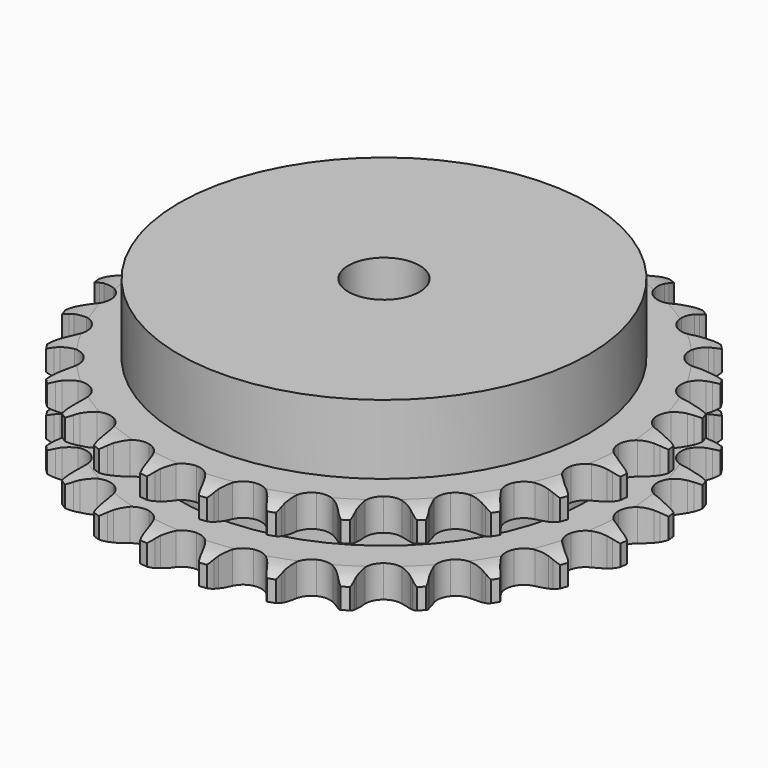
from build123d import *

# Parameters (mm, degrees)
PAD_DEPTH         = 25.5
SKETCH001_R       = 57.5
PAD001_DEPTH      = 45
SKETCH002_R       = 10
POCKET_DEPTH      = 0.001
POCKET_DEPTH_BACK = 45.001


with BuildPart() as part:
    # Sprocket → Pad (new body)
    with BuildSketch(Plane.XY):
        with BuildLine():
            ThreePointArc((-8.494226, 75.388337), (-7.267577, 73.960956), (-6.394077, 72.293897))
            Line((-6.394077, 72.293897), (-5.899023, 71.013786))
            ThreePointArc((-5.899023, 71.013786), (-5.112344, 69.337671), (-4.100051, 67.787353))
            ThreePointArc((-4.100051, 67.787353), (-2.289278, 66.287069), (0, 65.749521))
            ThreePointArc((0, 65.749521), (2.289278, 66.287069), (4.100051, 67.787353))
            ThreePointArc((4.100051, 67.787353), (5.112344, 69.337671), (5.899023, 71.013786))
            Line((5.899023, 71.013786), (6.394077, 72.293897))
            ThreePointArc((6.394077, 72.293897), (7.267577, 73.960956), (8.494226, 75.388337))
            ThreePointArc((8.494226, 75.388337), (9.372497, 73.723788), (9.853141, 71.904154))
            Line((9.853141, 71.904154), (10.050932, 70.545978))
            ThreePointArc((10.050932, 70.545978), (10.444917, 68.736835), (11.086851, 67.00013))
            ThreePointArc((11.086851, 67.00013), (12.518379, 65.134526), (14.630645, 64.101044))
            ThreePointArc((14.630645, 64.101044), (16.982142, 64.115701), (19.081359, 65.175436))
            Line((19.081359, 65.175436), (21.553176, 67.920666))
            ThreePointArc((21.553176, 67.920666), (21.922204, 68.499522), (22.32067, 69.058522))
            ThreePointArc((22.32067, 69.058522), (23.543224, 70.489412), (25.056741, 71.608051))
            ThreePointArc((25.056741, 71.608051), (25.542596, 69.789802), (25.606282, 67.908837))
            Line((25.606282, 67.908837), (25.496891, 66.5407))
            ThreePointArc((25.496891, 66.5407), (25.478425, 64.689246), (25.717812, 62.853241))
            ThreePointArc((25.717812, 62.853241), (26.698313, 60.715866), (28.527648, 59.238272))
            ThreePointArc((28.527648, 59.238272), (30.82345, 58.729305), (33.105849, 59.29535))
            Line((33.105849, 59.29535), (36.126563, 61.42172))
            ThreePointArc((36.126563, 61.42172), (36.615146, 61.903947), (37.128011, 62.360265))
            ThreePointArc((37.128011, 62.360265), (38.638316, 63.483235), (40.362807, 64.237039))
            ThreePointArc((40.362807, 64.237039), (40.431881, 62.356264), (40.075417, 60.508287))
            Line((40.075417, 60.508287), (39.66433, 59.198794))
            ThreePointArc((39.66433, 59.198794), (39.23434, 57.397869), (39.059175, 55.554627))
            ThreePointArc((39.059175, 55.554627), (39.539482, 53.252659), (40.994156, 51.405046))
            ThreePointArc((40.994156, 51.405046), (43.119141, 50.397976), (45.470273, 50.441947))
            Line((45.470273, 50.441947), (48.888413, 51.842833))
            ThreePointArc((48.888413, 51.842833), (49.472052, 52.204249), (50.073598, 52.535003))
            ThreePointArc((50.073598, 52.535003), (51.795922, 53.293744), (53.644913, 53.644913))
            ThreePointArc((53.644913, 53.644913), (53.293744, 51.795922), (52.535003, 50.073598))
            Line((52.535003, 50.073598), (51.842833, 48.888413))
            ThreePointArc((51.842833, 48.888413), (51.02288, 47.228322), (50.441947, 45.470273))
            ThreePointArc((50.441947, 45.470273), (50.397976, 43.119141), (51.405046, 40.994156))
            ThreePointArc((51.405046, 40.994156), (53.252659, 39.539482), (55.554627, 39.059175))
            Line((55.554627, 39.059175), (59.198794, 39.66433))
            ThreePointArc((59.198794, 39.66433), (59.848223, 39.886813), (60.508287, 40.075417))
            ThreePointArc((60.508287, 40.075417), (62.356264, 40.431881), (64.237039, 40.362807))
            ThreePointArc((64.237039, 40.362807), (63.483235, 38.638316), (62.360265, 37.128011))
            Line((62.360265, 37.128011), (61.42172, 36.126563))
            ThreePointArc((61.42172, 36.126563), (60.25292, 34.690551), (59.29535, 33.105849))
            ThreePointArc((59.29535, 33.105849), (58.729305, 30.82345), (59.238272, 28.527648))
            ThreePointArc((59.238272, 28.527648), (60.715866, 26.698313), (62.853241, 25.717812))
            Line((62.853241, 25.717812), (66.5407, 25.496891))
            ThreePointArc((66.5407, 25.496891), (67.223353, 25.569285), (67.908837, 25.606282))
            ThreePointArc((67.908837, 25.606282), (69.789802, 25.542596), (71.608051, 25.056741))
            ThreePointArc((71.608051, 25.056741), (70.489412, 23.543224), (69.058522, 22.32067))
            Line((69.058522, 22.32067), (67.920666, 21.553176))
            ThreePointArc((67.920666, 21.553176), (66.461628, 20.41325), (65.175436, 19.081359))
            ThreePointArc((65.175436, 19.081359), (64.115701, 16.982142), (64.101044, 14.630645))
            ThreePointArc((64.101044, 14.630645), (65.134526, 12.518379), (67.00013, 11.086851))
            Line((67.00013, 11.086851), (70.545978, 10.050932))
            ThreePointArc((70.545978, 10.050932), (71.227625, 9.969606), (71.904154, 9.853141))
            ThreePointArc((71.904154, 9.853141), (73.723788, 9.372497), (75.388337, 8.494226))
            ThreePointArc((75.388337, 8.494226), (73.960956, 7.267577), (72.293897, 6.394077))
            Line((72.293897, 6.394077), (71.013786, 5.899023))
            ThreePointArc((71.013786, 5.899023), (69.337671, 5.112344), (67.787353, 4.100051))
            ThreePointArc((67.787353, 4.100051), (66.287069, 2.289278), (65.749521, 0))
            ThreePointArc((65.749521, 0), (66.287069, -2.289278), (67.787353, -4.100051))
            Line((67.787353, -4.100051), (71.013786, -5.899023))
            ThreePointArc((71.013786, -5.899023), (71.660246, -6.129991), (72.293897, -6.394077))
            ThreePointArc((72.293897, -6.394077), (73.960956, -7.267577), (75.388337, -8.494226))
            ThreePointArc((75.388337, -8.494226), (73.723788, -9.372497), (71.904154, -9.853141))
            Line((71.904154, -9.853141), (70.545978, -10.050932))
            ThreePointArc((70.545978, -10.050932), (68.736835, -10.444917), (67.00013, -11.086851))
            ThreePointArc((67.00013, -11.086851), (65.134526, -12.518379), (64.101044, -14.630645))
            ThreePointArc((64.101044, -14.630645), (64.115701, -16.982142), (65.175436, -19.081359))
            Line((65.175436, -19.081359), (67.920666, -21.553176))
            ThreePointArc((67.920666, -21.553176), (68.499522, -21.922204), (69.058522, -22.32067))
            ThreePointArc((69.058522, -22.32067), (70.489412, -23.543224), (71.608051, -25.056741))
            ThreePointArc((71.608051, -25.056741), (69.789802, -25.542596), (67.908837, -25.606282))
            Line((67.908837, -25.606282), (66.5407, -25.496891))
            ThreePointArc((66.5407, -25.496891), (64.689246, -25.478425), (62.853241, -25.717812))
            ThreePointArc((62.853241, -25.717812), (60.715866, -26.698313), (59.238272, -28.527648))
            ThreePointArc((59.238272, -28.527648), (58.729305, -30.82345), (59.29535, -33.105849))
            Line((59.29535, -33.105849), (61.42172, -36.126563))
            ThreePointArc((61.42172, -36.126563), (61.903947, -36.615146), (62.360265, -37.128011))
            ThreePointArc((62.360265, -37.128011), (63.483235, -38.638316), (64.237039, -40.362807))
            ThreePointArc((64.237039, -40.362807), (62.356264, -40.431881), (60.508287, -40.075417))
            Line((60.508287, -40.075417), (59.198794, -39.66433))
            ThreePointArc((59.198794, -39.66433), (57.397869, -39.23434), (55.554627, -39.059175))
            ThreePointArc((55.554627, -39.059175), (53.252659, -39.539482), (51.405046, -40.994156))
            ThreePointArc((51.405046, -40.994156), (50.397976, -43.119141), (50.441947, -45.470273))
            Line((50.441947, -45.470273), (51.842833, -48.888413))
            ThreePointArc((51.842833, -48.888413), (52.204249, -49.472052), (52.535003, -50.073598))
            ThreePointArc((52.535003, -50.073598), (53.293744, -51.795922), (53.644913, -53.644913))
            ThreePointArc((53.644913, -53.644913), (51.795922, -53.293744), (50.073598, -52.535003))
            Line((50.073598, -52.535003), (48.888413, -51.842833))
            ThreePointArc((48.888413, -51.842833), (47.228322, -51.02288), (45.470273, -50.441947))
            ThreePointArc((45.470273, -50.441947), (43.119141, -50.397976), (40.994156, -51.405046))
            ThreePointArc((40.994156, -51.405046), (39.539482, -53.252659), (39.059175, -55.554627))
            Line((39.059175, -55.554627), (39.66433, -59.198794))
            ThreePointArc((39.66433, -59.198794), (39.886813, -59.848223), (40.075417, -60.508287))
            ThreePointArc((40.075417, -60.508287), (40.431881, -62.356264), (40.362807, -64.237039))
            ThreePointArc((40.362807, -64.237039), (38.638316, -63.483235), (37.128011, -62.360265))
            Line((37.128011, -62.360265), (36.126563, -61.42172))
            ThreePointArc((36.126563, -61.42172), (34.690551, -60.25292), (33.105849, -59.29535))
            ThreePointArc((33.105849, -59.29535), (30.82345, -58.729305), (28.527648, -59.238272))
            ThreePointArc((28.527648, -59.238272), (26.698313, -60.715866), (25.717812, -62.853241))
            Line((25.717812, -62.853241), (25.496891, -66.5407))
            ThreePointArc((25.496891, -66.5407), (25.569285, -67.223353), (25.606282, -67.908837))
            ThreePointArc((25.606282, -67.908837), (25.542596, -69.789802), (25.056741, -71.608051))
            ThreePointArc((25.056741, -71.608051), (23.543224, -70.489412), (22.32067, -69.058522))
            Line((22.32067, -69.058522), (21.553176, -67.920666))
            ThreePointArc((21.553176, -67.920666), (20.41325, -66.461628), (19.081359, -65.175436))
            ThreePointArc((19.081359, -65.175436), (16.982142, -64.115701), (14.630645, -64.101044))
            ThreePointArc((14.630645, -64.101044), (12.518379, -65.134526), (11.086851, -67.00013))
            Line((11.086851, -67.00013), (10.050932, -70.545978))
            ThreePointArc((10.050932, -70.545978), (9.969606, -71.227625), (9.853141, -71.904154))
            ThreePointArc((9.853141, -71.904154), (9.372497, -73.723788), (8.494226, -75.388337))
            ThreePointArc((8.494226, -75.388337), (7.267577, -73.960956), (6.394077, -72.293897))
            Line((6.394077, -72.293897), (5.899023, -71.013786))
            ThreePointArc((5.899023, -71.013786), (5.112344, -69.337671), (4.100051, -67.787353))
            ThreePointArc((4.100051, -67.787353), (2.289278, -66.287069), (0, -65.749521))
            ThreePointArc((0, -65.749521), (-2.289278, -66.287069), (-4.100051, -67.787353))
            Line((-4.100051, -67.787353), (-5.899023, -71.013786))
            ThreePointArc((-5.899023, -71.013786), (-6.129991, -71.660246), (-6.394077, -72.293897))
            ThreePointArc((-6.394077, -72.293897), (-7.267577, -73.960956), (-8.494226, -75.388337))
            ThreePointArc((-8.494226, -75.388337), (-9.372497, -73.723788), (-9.853141, -71.904154))
            Line((-9.853141, -71.904154), (-10.050932, -70.545978))
            ThreePointArc((-10.050932, -70.545978), (-10.444917, -68.736835), (-11.086851, -67.00013))
            ThreePointArc((-11.086851, -67.00013), (-12.518379, -65.134526), (-14.630645, -64.101044))
            ThreePointArc((-14.630645, -64.101044), (-16.982142, -64.115701), (-19.081359, -65.175436))
            Line((-19.081359, -65.175436), (-21.553176, -67.920666))
            ThreePointArc((-21.553176, -67.920666), (-21.922204, -68.499522), (-22.32067, -69.058522))
            ThreePointArc((-22.32067, -69.058522), (-23.543224, -70.489412), (-25.056741, -71.608051))
            ThreePointArc((-25.056741, -71.608051), (-25.542596, -69.789802), (-25.606282, -67.908837))
            Line((-25.606282, -67.908837), (-25.496891, -66.5407))
            ThreePointArc((-25.496891, -66.5407), (-25.478425, -64.689246), (-25.717812, -62.853241))
            ThreePointArc((-25.717812, -62.853241), (-26.698313, -60.715866), (-28.527648, -59.238272))
            ThreePointArc((-28.527648, -59.238272), (-30.82345, -58.729305), (-33.105849, -59.29535))
            Line((-33.105849, -59.29535), (-36.126563, -61.42172))
            ThreePointArc((-36.126563, -61.42172), (-36.615146, -61.903947), (-37.128011, -62.360265))
            ThreePointArc((-37.128011, -62.360265), (-38.638316, -63.483235), (-40.362807, -64.237039))
            ThreePointArc((-40.362807, -64.237039), (-40.431881, -62.356264), (-40.075417, -60.508287))
            Line((-40.075417, -60.508287), (-39.66433, -59.198794))
            ThreePointArc((-39.66433, -59.198794), (-39.23434, -57.397869), (-39.059175, -55.554627))
            ThreePointArc((-39.059175, -55.554627), (-39.539482, -53.252659), (-40.994156, -51.405046))
            ThreePointArc((-40.994156, -51.405046), (-43.119141, -50.397976), (-45.470273, -50.441947))
            Line((-45.470273, -50.441947), (-48.888413, -51.842833))
            ThreePointArc((-48.888413, -51.842833), (-49.472052, -52.204249), (-50.073598, -52.535003))
            ThreePointArc((-50.073598, -52.535003), (-51.795922, -53.293744), (-53.644913, -53.644913))
            ThreePointArc((-53.644913, -53.644913), (-53.293744, -51.795922), (-52.535003, -50.073598))
            Line((-52.535003, -50.073598), (-51.842833, -48.888413))
            ThreePointArc((-51.842833, -48.888413), (-51.02288, -47.228322), (-50.441947, -45.470273))
            ThreePointArc((-50.441947, -45.470273), (-50.397976, -43.119141), (-51.405046, -40.994156))
            ThreePointArc((-51.405046, -40.994156), (-53.252659, -39.539482), (-55.554627, -39.059175))
            Line((-55.554627, -39.059175), (-59.198794, -39.66433))
            ThreePointArc((-59.198794, -39.66433), (-59.848223, -39.886813), (-60.508287, -40.075417))
            ThreePointArc((-60.508287, -40.075417), (-62.356264, -40.431881), (-64.237039, -40.362807))
            ThreePointArc((-64.237039, -40.362807), (-63.483235, -38.638316), (-62.360265, -37.128011))
            Line((-62.360265, -37.128011), (-61.42172, -36.126563))
            ThreePointArc((-61.42172, -36.126563), (-60.25292, -34.690551), (-59.29535, -33.105849))
            ThreePointArc((-59.29535, -33.105849), (-58.729305, -30.82345), (-59.238272, -28.527648))
            ThreePointArc((-59.238272, -28.527648), (-60.715866, -26.698313), (-62.853241, -25.717812))
            Line((-62.853241, -25.717812), (-66.5407, -25.496891))
            ThreePointArc((-66.5407, -25.496891), (-67.223353, -25.569285), (-67.908837, -25.606282))
            ThreePointArc((-67.908837, -25.606282), (-69.789802, -25.542596), (-71.608051, -25.056741))
            ThreePointArc((-71.608051, -25.056741), (-70.489412, -23.543224), (-69.058522, -22.32067))
            Line((-69.058522, -22.32067), (-67.920666, -21.553176))
            ThreePointArc((-67.920666, -21.553176), (-66.461628, -20.41325), (-65.175436, -19.081359))
            ThreePointArc((-65.175436, -19.081359), (-64.115701, -16.982142), (-64.101044, -14.630645))
            ThreePointArc((-64.101044, -14.630645), (-65.134526, -12.518379), (-67.00013, -11.086851))
            Line((-67.00013, -11.086851), (-70.545978, -10.050932))
            ThreePointArc((-70.545978, -10.050932), (-71.227625, -9.969606), (-71.904154, -9.853141))
            ThreePointArc((-71.904154, -9.853141), (-73.723788, -9.372497), (-75.388337, -8.494226))
            ThreePointArc((-75.388337, -8.494226), (-73.960956, -7.267577), (-72.293897, -6.394077))
            Line((-72.293897, -6.394077), (-71.013786, -5.899023))
            ThreePointArc((-71.013786, -5.899023), (-69.337671, -5.112344), (-67.787353, -4.100051))
            ThreePointArc((-67.787353, -4.100051), (-66.287069, -2.289278), (-65.749521, 0))
            ThreePointArc((-65.749521, 0), (-66.287069, 2.289278), (-67.787353, 4.100051))
            Line((-67.787353, 4.100051), (-71.013786, 5.899023))
            ThreePointArc((-71.013786, 5.899023), (-71.660246, 6.129991), (-72.293897, 6.394077))
            ThreePointArc((-72.293897, 6.394077), (-73.960956, 7.267577), (-75.388337, 8.494226))
            ThreePointArc((-75.388337, 8.494226), (-73.723788, 9.372497), (-71.904154, 9.853141))
            Line((-71.904154, 9.853141), (-70.545978, 10.050932))
            ThreePointArc((-70.545978, 10.050932), (-68.736835, 10.444917), (-67.00013, 11.086851))
            ThreePointArc((-67.00013, 11.086851), (-65.134526, 12.518379), (-64.101044, 14.630645))
            ThreePointArc((-64.101044, 14.630645), (-64.115701, 16.982142), (-65.175436, 19.081359))
            Line((-65.175436, 19.081359), (-67.920666, 21.553176))
            ThreePointArc((-67.920666, 21.553176), (-68.499522, 21.922204), (-69.058522, 22.32067))
            ThreePointArc((-69.058522, 22.32067), (-70.489412, 23.543224), (-71.608051, 25.056741))
            ThreePointArc((-71.608051, 25.056741), (-69.789802, 25.542596), (-67.908837, 25.606282))
            Line((-67.908837, 25.606282), (-66.5407, 25.496891))
            ThreePointArc((-66.5407, 25.496891), (-64.689246, 25.478425), (-62.853241, 25.717812))
            ThreePointArc((-62.853241, 25.717812), (-60.715866, 26.698313), (-59.238272, 28.527648))
            ThreePointArc((-59.238272, 28.527648), (-58.729305, 30.82345), (-59.29535, 33.105849))
            Line((-59.29535, 33.105849), (-61.42172, 36.126563))
            ThreePointArc((-61.42172, 36.126563), (-61.903947, 36.615146), (-62.360265, 37.128011))
            ThreePointArc((-62.360265, 37.128011), (-63.483235, 38.638316), (-64.237039, 40.362807))
            ThreePointArc((-64.237039, 40.362807), (-62.356264, 40.431881), (-60.508287, 40.075417))
            Line((-60.508287, 40.075417), (-59.198794, 39.66433))
            ThreePointArc((-59.198794, 39.66433), (-57.397869, 39.23434), (-55.554627, 39.059175))
            ThreePointArc((-55.554627, 39.059175), (-53.252659, 39.539482), (-51.405046, 40.994156))
            ThreePointArc((-51.405046, 40.994156), (-50.397976, 43.119141), (-50.441947, 45.470273))
            Line((-50.441947, 45.470273), (-51.842833, 48.888413))
            ThreePointArc((-51.842833, 48.888413), (-52.204249, 49.472052), (-52.535003, 50.073598))
            ThreePointArc((-52.535003, 50.073598), (-53.293744, 51.795922), (-53.644913, 53.644913))
            ThreePointArc((-53.644913, 53.644913), (-51.795922, 53.293744), (-50.073598, 52.535003))
            Line((-50.073598, 52.535003), (-48.888413, 51.842833))
            ThreePointArc((-48.888413, 51.842833), (-47.228322, 51.02288), (-45.470273, 50.441947))
            ThreePointArc((-45.470273, 50.441947), (-43.119141, 50.397976), (-40.994156, 51.405046))
            ThreePointArc((-40.994156, 51.405046), (-39.539482, 53.252659), (-39.059175, 55.554627))
            Line((-39.059175, 55.554627), (-39.66433, 59.198794))
            ThreePointArc((-39.66433, 59.198794), (-39.886813, 59.848223), (-40.075417, 60.508287))
            ThreePointArc((-40.075417, 60.508287), (-40.431881, 62.356264), (-40.362807, 64.237039))
            ThreePointArc((-40.362807, 64.237039), (-38.638316, 63.483235), (-37.128011, 62.360265))
            Line((-37.128011, 62.360265), (-36.126563, 61.42172))
            ThreePointArc((-36.126563, 61.42172), (-34.690551, 60.25292), (-33.105849, 59.29535))
            ThreePointArc((-33.105849, 59.29535), (-30.82345, 58.729305), (-28.527648, 59.238272))
            ThreePointArc((-28.527648, 59.238272), (-26.698313, 60.715866), (-25.717812, 62.853241))
            Line((-25.717812, 62.853241), (-25.496891, 66.5407))
            ThreePointArc((-25.496891, 66.5407), (-25.569285, 67.223353), (-25.606282, 67.908837))
            ThreePointArc((-25.606282, 67.908837), (-25.542596, 69.789802), (-25.056741, 71.608051))
            ThreePointArc((-25.056741, 71.608051), (-23.543224, 70.489412), (-22.32067, 69.058522))
            Line((-22.32067, 69.058522), (-21.553176, 67.920666))
            ThreePointArc((-21.553176, 67.920666), (-20.41325, 66.461628), (-19.081359, 65.175436))
            ThreePointArc((-19.081359, 65.175436), (-16.982142, 64.115701), (-14.630645, 64.101044))
            ThreePointArc((-14.630645, 64.101044), (-12.518379, 65.134526), (-11.086851, 67.00013))
            Line((-11.086851, 67.00013), (-10.050932, 70.545978))
            ThreePointArc((-10.050932, 70.545978), (-9.969606, 71.227625), (-9.853141, 71.904154))
            ThreePointArc((-9.853141, 71.904154), (-9.372497, 73.723788), (-8.494226, 75.388337))
        make_face()
    extrude(amount=PAD_DEPTH)

    # Sketch → Groove (revolve, cut)
    with BuildSketch(Plane.XZ):
        with BuildLine():
            ThreePointArc((67.375762, 0), (70.95347, 0.405129), (74.35, 1.6))
            Line((74.35, 1.6), (74.35, 7.4))
            ThreePointArc((74.35, 7.4), (70.95347, 8.594871), (67.375762, 9))
            Line((57.5, 9), (67.375762, 9))
            Line((57.5, 16.5), (57.5, 9))
            Line((67.375762, 16.5), (57.5, 16.5))
            ThreePointArc((67.375762, 16.5), (70.95347, 16.905129), (74.35, 18.1))
            Line((74.35, 18.1), (74.35, 23.9))
            ThreePointArc((74.35, 23.9), (70.95347, 25.094871), (67.375762, 25.5))
            Line((67.375762, 25.5), (77.375762, 25.5))
            Line((77.375762, 25.5), (77.375762, 0))
            Line((67.375762, 0), (77.375762, 0))
        make_face()
    revolve(axis=Axis((0, 0, 0), (0, 0, 1)), mode=Mode.SUBTRACT)

    # Sketch001 → Pad001 (join)
    with BuildSketch(Plane.XY):
        Circle(SKETCH001_R)
    extrude(amount=PAD001_DEPTH)

    # Sketch002 → Pocket (cut, two sides)
    with BuildSketch(Plane.XY) as pocket_sk:
        Circle(SKETCH002_R)
    extrude(amount=-POCKET_DEPTH, mode=Mode.SUBTRACT)
    extrude(pocket_sk.sketch, amount=POCKET_DEPTH_BACK, mode=Mode.SUBTRACT)


solid = part.part
